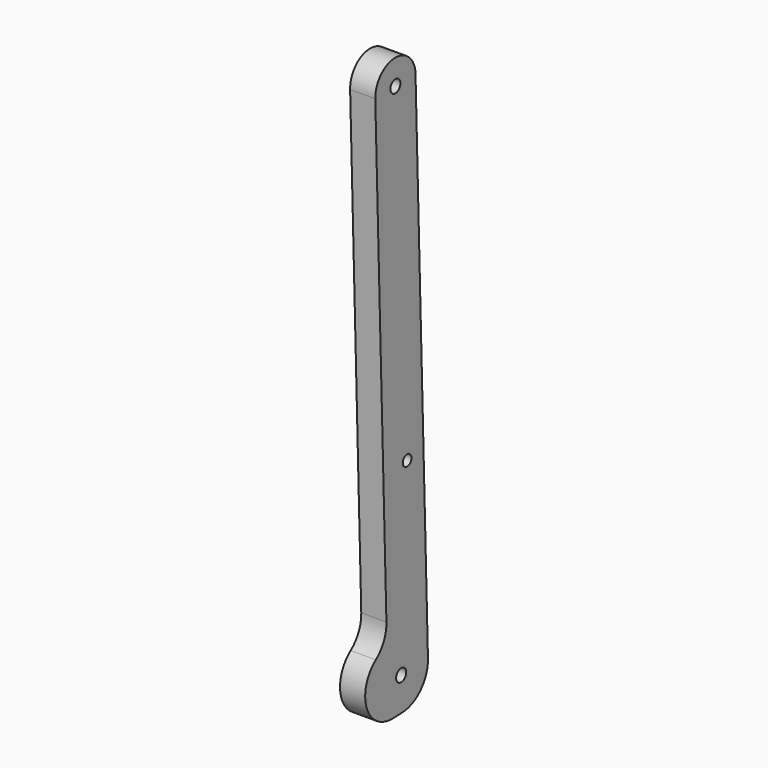
from build123d import *

# Parameters (mm, degrees)
F2_R     = 4.7625
F2_R_2   = 4.1275
F3_DEPTH = 19.05


with BuildPart() as f3:
    # F2 (on Right) → F3 (new body)
    with BuildSketch(Plane.YZ):
        with BuildLine():
            ThreePointArc((-625.792998, 281.016588), (-634.407973, 252.317654), (-609.689231, 235.381586))
            Line((-609.689231, 235.381586), (-601.045127, 235.642505))
            ThreePointArc((-601.045127, 235.642505), (-583.319937, 243.617635), (-576.422796, 261.78944))
            Line((-576.422796, 261.78944), (-588.213376, 656.447307))
            ThreePointArc((-588.213376, 656.447307), (-607.823753, 674.919938), (-626.296384, 655.30956))
            Line((-626.296384, 655.30956), (-615.741751, 302.021651))
            ThreePointArc((-615.741751, 302.021651), (-618.218485, 290.299436), (-625.792998, 281.016588))
        make_face()
        with Locations((-601.811469, 261.030942)):
            Circle(F2_R, mode=Mode.SUBTRACT)
        with Locations((-596.168458, 401.903868)):
            Circle(F2_R_2, mode=Mode.SUBTRACT)
        with Locations((-607.25488, 655.878433)):
            Circle(F2_R, mode=Mode.SUBTRACT)
    extrude(amount=F3_DEPTH)


solid = f3.part
